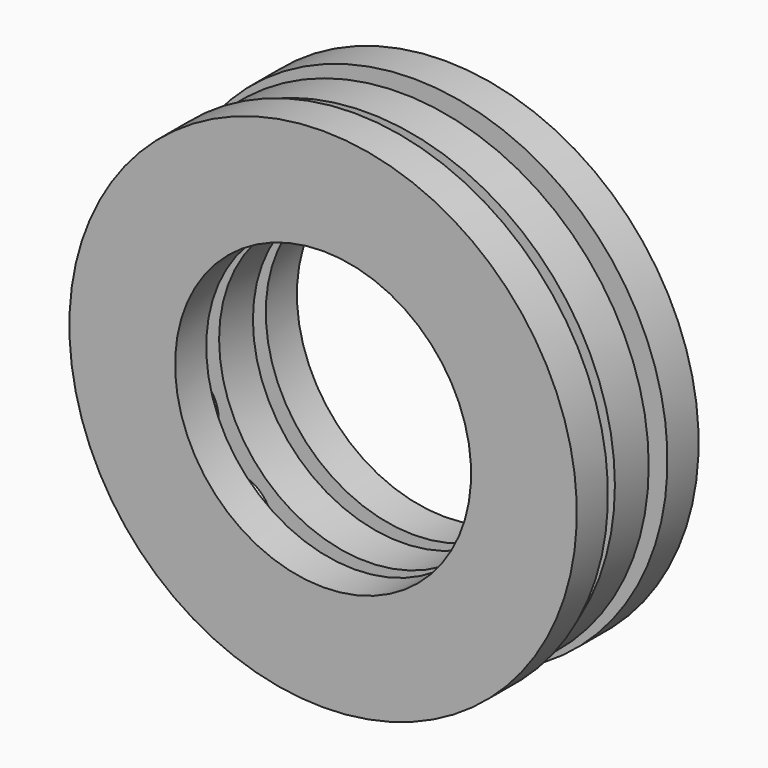
from build123d import *

# Parameters (mm, degrees)
F0_R     = 14.65
F0_R_2   = 8.75
F1_DEPTH = 1.25
F4_COUNT = 13
F5_W     = 2.3
F5_H     = 6.25


with BuildPart() as f1:
    # F0 (on Front) → F1 (new body, symmetric)
    with BuildSketch(Plane.XZ):
        Circle(F0_R)
        Circle(F0_R_2, mode=Mode.SUBTRACT)
    extrude(amount=F1_DEPTH, both=True)

    # F2 (on Front) → F3 (revolve)
    with BuildSketch(Plane.XZ):
        with BuildLine():
            Line((0, 14.2), (0, 9.2))
            ThreePointArc((0, 9.2), (2.5, 11.7), (0, 14.2))
        make_face()
    revolve(axis=Axis((0, 0, 11.7), (0, 0, -1)))

    # F4: F1 ×13 about axis
    f4_axis = Axis((0, -1.25, 0), (0, -1, 0))


with BuildPart() as f1_1:
    add(f1.part)
    for i in range(1, F4_COUNT):
        add(f1.part.rotate(f4_axis, i * 360 / F4_COUNT))

    # F5 (on Right) → F6 (revolve)
    with BuildSketch(Plane.YZ):
        with Locations((3.35, 11.875)):
            Rectangle(F5_W, F5_H)
        with Locations((-3.35, 11.875)):
            Rectangle(F5_W, F5_H)
    revolve(axis=Axis((0, 2.25, 0), (0, 1, 0)))


solid = f1_1.part
